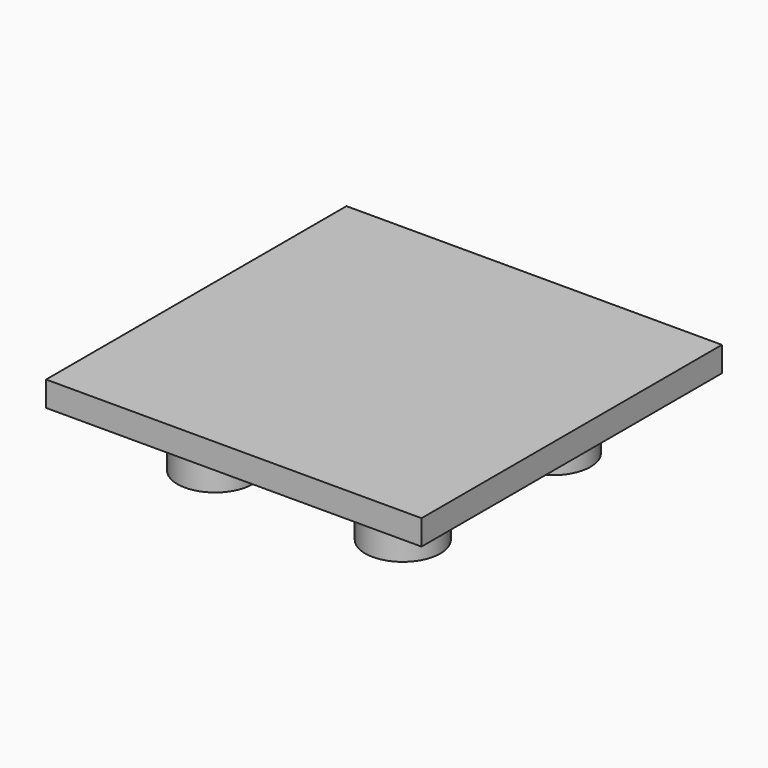
from build123d import *

# Parameters (mm, degrees)
F0_W     = 30
F0_H     = 30
F1_DEPTH = 2
F2_R     = 3
F3_DEPTH = 5


with BuildPart() as f1:
    # F0 (on Top) → F1 (new body)
    with BuildSketch(Plane.XY):
        Rectangle(F0_W, F0_H)
    extrude(amount=F1_DEPTH)

    # F2 (on Top) → F3 (join)
    with BuildSketch(Plane.XY):
        with Locations((-7.5, -7.5)):
            Circle(F2_R)
        with Locations((7.5, -7.5)):
            Circle(F2_R)
        with Locations((7.5, 7.5)):
            Circle(F2_R)
        with Locations((-7.5, 7.5)):
            Circle(F2_R)
    extrude(amount=-F3_DEPTH)


solid = f1.part
